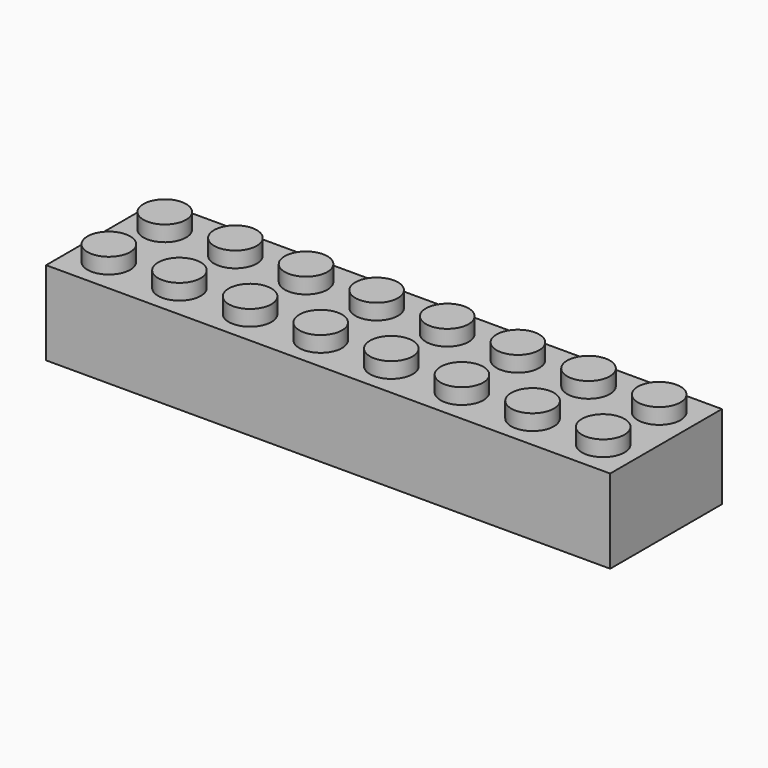
from build123d import *

# Parameters (mm, degrees)
F0_W     = 64.1096
F0_H     = 15.875
F1_DEPTH = 9.525
F2_R     = 2.4257
F3_DEPTH = 1.778
F4_W     = 61.9252
F4_H     = 13.6906
F5_DEPTH = 8.4328
F6_R     = 3.2512
F6_R_2   = 3.401353
F7_DEPTH = 8.4328
F8_R     = 2.4638
F9_DEPTH = 8.4328


with BuildPart() as f1:
    # F0 (on Top) → F1 (new body)
    with BuildSketch(Plane.XY):
        with Locations((-7.36389, 14.818856)):
            Rectangle(F0_W, F0_H)
    extrude(amount=F1_DEPTH)

    # F2 (on face) → F3 (join)
    with BuildSketch(Plane.XY.offset(9.525)):
        with Locations((-35.45629, 18.793956)):
            Circle(F2_R)
        with Locations((-27.42989, 18.793956)):
            Circle(F2_R)
        with Locations((-19.40349, 18.793956)):
            Circle(F2_R)
        with Locations((-11.37709, 18.793956)):
            Circle(F2_R)
        with Locations((-3.35069, 18.793956)):
            Circle(F2_R)
        with Locations((4.67571, 18.793956)):
            Circle(F2_R)
        with Locations((12.70211, 18.793956)):
            Circle(F2_R)
        with Locations((20.72851, 18.793956)):
            Circle(F2_R)
        with Locations((-35.45629, 10.843756)):
            Circle(F2_R)
        with Locations((-27.42989, 10.843756)):
            Circle(F2_R)
        with Locations((-19.40349, 10.843756)):
            Circle(F2_R)
        with Locations((-11.37709, 10.843756)):
            Circle(F2_R)
        with Locations((-3.35069, 10.843756)):
            Circle(F2_R)
        with Locations((4.67571, 10.843756)):
            Circle(F2_R)
        with Locations((20.72851, 10.843756)):
            Circle(F2_R)
        with Locations((12.70211, 10.843756)):
            Circle(F2_R)
    extrude(amount=F3_DEPTH)

    # F4 (on face) → F5 (cut)
    with BuildSketch(Plane(origin=(0, 0, 0), x_dir=(1, 0, 0), z_dir=(0, 0, -1))):
        with Locations((-7.36389, -14.818856)):
            Rectangle(F4_W, F4_H)
    extrude(amount=-F5_DEPTH, mode=Mode.SUBTRACT)

    # F6 (on face) → F7 (join)
    with BuildSketch(Plane(origin=(0, 0, 8.4328), x_dir=(1, 0, 0), z_dir=(0, 0, -1))):
        with Locations((-30.45249, -14.577556)):
            Circle(F6_R)
        with Locations((15.72471, -14.577556)):
            Circle(F6_R_2)
        with Locations((-22.75629, -14.577556)):
            Circle(F6_R)
        with Locations((-15.06009, -14.577556)):
            Circle(F6_R)
        with Locations((-7.36389, -14.577556)):
            Circle(F6_R)
        with Locations((0.33231, -14.577556)):
            Circle(F6_R)
        with Locations((8.02851, -14.558641)):
            Circle(F6_R)
    extrude(amount=F7_DEPTH)

    # F8 (on face) → F9 (cut)
    with BuildSketch(Plane(origin=(0, 0, 0), x_dir=(1, 0, 0), z_dir=(0, 0, -1))):
        with Locations((-30.45249, -14.577556)):
            Circle(F8_R)
        with Locations((-22.75629, -14.577556)):
            Circle(F8_R)
        with Locations((-15.06009, -14.577556)):
            Circle(F8_R)
        with Locations((-7.36389, -14.577556)):
            Circle(F8_R)
        with Locations((0.33231, -14.577556)):
            Circle(F8_R)
        with Locations((8.02851, -14.558641)):
            Circle(F8_R)
        with Locations((15.72471, -14.577556)):
            Circle(F8_R)
    extrude(amount=-F9_DEPTH, mode=Mode.SUBTRACT)


solid = f1.part
